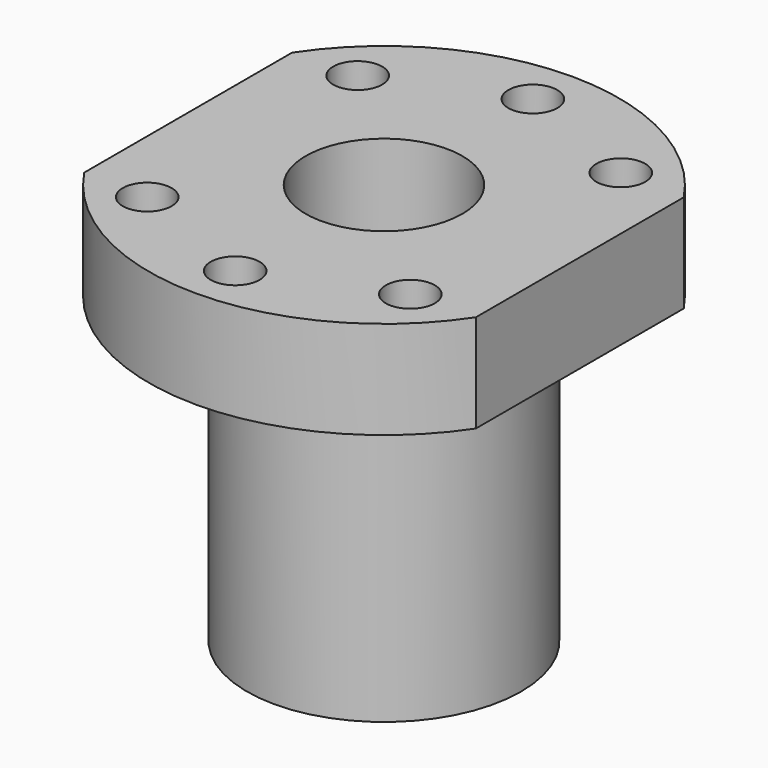
from build123d import *

# Parameters (mm, degrees)
F0_R     = 14
F0_R_2   = 8
F1_DEPTH = 31
F2_R     = 14
F2_R_2   = 8
F3_DEPTH = 10
F5_D     = 5


with BuildPart() as f1:
    # F0 (on Top) → F1 (new body)
    with BuildSketch(Plane.XY):
        with Locations((-24.742087, 7.847304)):
            Circle(F0_R)
        with Locations((-24.742087, 7.847304)):
            Circle(F0_R_2, mode=Mode.SUBTRACT)
    extrude(amount=F1_DEPTH)

    # F2 (on face) → F3 (join)
    with BuildSketch(Plane.XY.offset(31)):
        with BuildLine():
            Line((-4.742087, -5.419196), (-4.742087, 21.113803))
            ThreePointArc((-4.742087, 21.113803), (-24.742087, 31.847304), (-44.742087, 21.113803))
            Line((-44.742087, 21.113803), (-44.742087, -5.419196))
            ThreePointArc((-44.742087, -5.419196), (-24.742087, -16.152696), (-4.742087, -5.419196))
        make_face()
        with Locations((-24.742087, 7.847304)):
            Circle(F2_R, mode=Mode.SUBTRACT)
        with Locations((-24.742087, 7.847304)):
            Circle(F2_R)
        with Locations((-24.742087, 7.847304)):
            Circle(F2_R_2, mode=Mode.SUBTRACT)
    extrude(amount=F3_DEPTH)

    # F5 (through all)
    with Locations(Plane.XY.offset(41)):
        with Locations((-38.177116, 21.282332), (-24.742087, 26.847304), (-11.307059, 21.282332), (-11.307059, -5.587725), (-24.742087, -11.152696), (-38.177116, -5.587725)):
            Hole(F5_D / 2)


solid = f1.part
